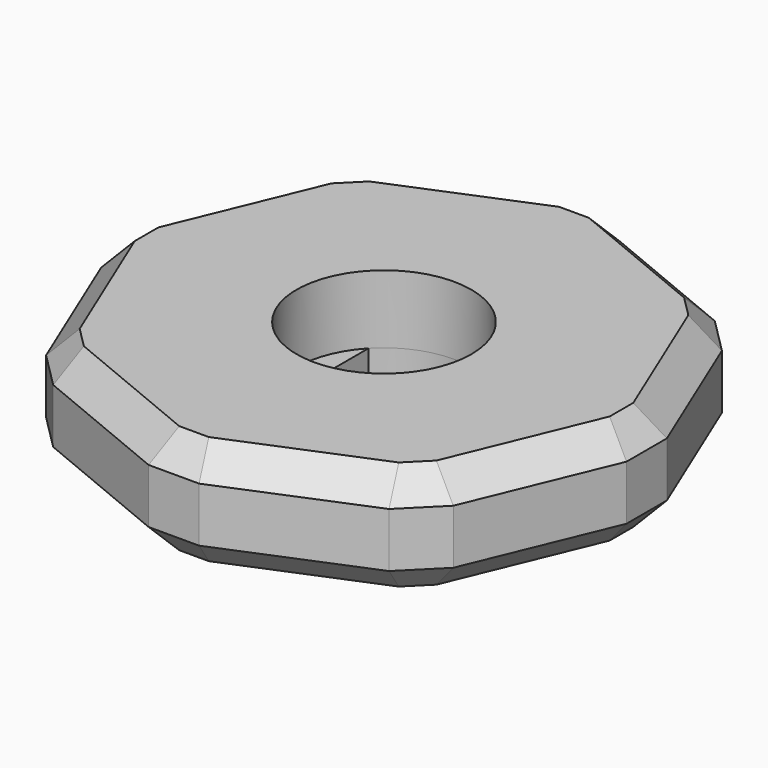
from build123d import *

# Parameters (mm, degrees)
PAD_DEPTH      = 5
PAD_DEPTH_BACK = 3
SKETCH002_R    = 6.4
POCKET_DEPTH   = 5.001
CHAMFER_SIZE   = 2


with BuildPart() as part:
    # Sketch → Pad (new body, two sides)
    with BuildSketch(Plane.XY) as pad_sk:
        Polygon((0, 20), (-14.142136, 14.142136), (-20, 0), (-14.142136, -14.142136), (0, -20), (14.142136, -14.142136), (20, 0), (14.142136, 14.142136), align=None)
        with BuildLine():
            Line((4.65, 4.397442), (4.65, -4.397442))
            ThreePointArc((-4.65, -4.397442), (0, -6.4), (4.65, -4.397442))
            Line((-4.65, 4.397442), (-4.65, -4.397442))
            ThreePointArc((4.65, 4.397442), (0, 6.4), (-4.65, 4.397442))
        make_face(mode=Mode.SUBTRACT)
    extrude(amount=PAD_DEPTH)
    extrude(pad_sk.sketch, amount=-PAD_DEPTH_BACK)

    # Sketch002 → Pocket (cut, through all)
    with BuildSketch(Plane.XY):
        Circle(SKETCH002_R)
    extrude(amount=POCKET_DEPTH, mode=Mode.SUBTRACT)

    # Chamfer
    chamfer_edges = [part.edges().sort_by_distance(p)[0] for p in [
        (0, -20, 1),
        (14.142136, -14.142136, 1),
        (7.071068, -17.071068, -3),
        (7.071068, -17.071068, 5),
        (-14.142136, -14.142136, 1),
        (-7.071068, -17.071068, -3),
        (-7.071068, -17.071068, 5),
        (-20, 0, 1),
        (-17.071068, -7.071068, -3),
        (-17.071068, -7.071068, 5),
        (-14.142136, 14.142136, 1),
        (-17.071068, 7.071068, -3),
        (-17.071068, 7.071068, 5),
        (0, 20, 1),
        (-7.071068, 17.071068, -3),
        (-7.071068, 17.071068, 5),
        (14.142136, 14.142136, 1),
        (7.071068, 17.071068, -3),
        (7.071068, 17.071068, 5),
        (20, 0, 1),
        (17.071068, 7.071068, -3),
        (17.071068, 7.071068, 5),
        (17.071068, -7.071068, -3),
        (17.071068, -7.071068, 5),
    ]]
    chamfer(chamfer_edges, length=CHAMFER_SIZE)


solid = part.part
